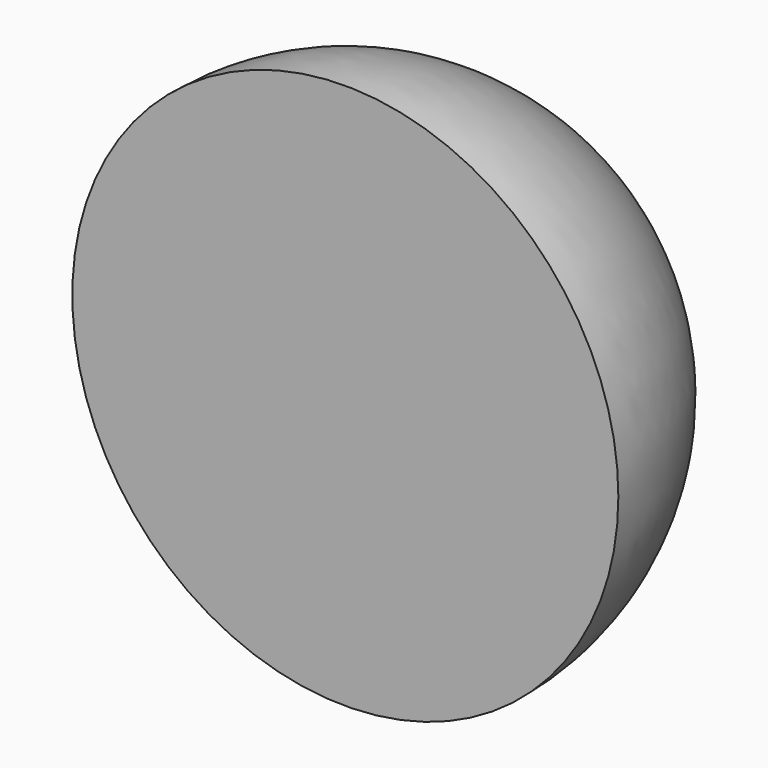
from build123d import *


with BuildPart() as f1:
    # F0 (on Top) → F1 (revolve)
    with BuildSketch(Plane.XY):
        with BuildLine():
            Line((0, 0.084239), (35, 0))
            ThreePointArc((35, 0), (24.778574, 24.803247), (0, 35.08434))
            Line((0, 35.08434), (0, 0.084239))
        make_face()
    revolve(axis=Axis((0, 17.58429, 0), (0, -1, 0)))


solid = f1.part
